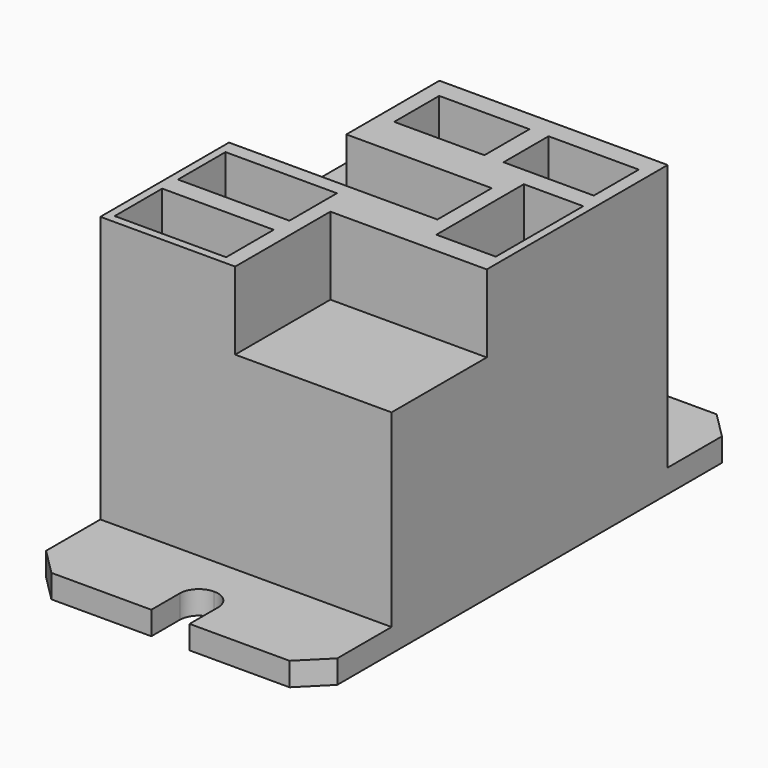
from build123d import *

# Parameters (mm, degrees)
F0_W     = 27.432
F0_H     = 32.512
F1_DEPTH = 27.3
F0_H_2   = 8.89
F2_DEPTH = 2.2
F3_SIZE  = 2.5
F4_W     = 14.732
F4_H     = 11.212
F5_DEPTH = 7.3
F6_W     = 8.5
F6_H     = 5.3
F6_W_2   = 5.6
F6_H_2   = 10.3
F6_W_3   = 10.5
F6_H_3   = 5.6
F7_DEPTH = 7.3
F9_DEPTH = 27.301


with BuildPart() as f1:
    # F0 (on Top) → F1 (new body)
    with BuildSketch(Plane.XY):
        Rectangle(F0_W, F0_H)
    extrude(amount=F1_DEPTH)

    # F0 (on Top) → F2 (join)
    with BuildSketch(Plane.XY):
        with Locations((0, 20.701)):
            Rectangle(F0_W, F0_H_2)
        with Locations((0, -20.701)):
            Rectangle(F0_W, F0_H_2)
    extrude(amount=F2_DEPTH)

    # F3
    f3_edges = [f1.edges().sort_by_distance(p)[0] for p in [
        (-13.716, -25.146, 1.1),
        (13.716, -25.146, 1.1),
        (13.716, 25.146, 1.1),
        (-13.716, 25.146, 1.1),
    ]]
    chamfer(f3_edges, length=F3_SIZE)

    # F4 (on face) → F5 (cut)
    with BuildSketch(Plane.XY.offset(27.3)):
        with Locations((6.35, -10.65)):
            Rectangle(F4_W, F4_H)
        Polygon((-13.716, 16.256), (-13.716, -1.106), (5.916, -1.106), (5.916, 5.294), (-7.784, 5.294), (-7.784, 16.256), align=None)
    extrude(amount=-F5_DEPTH, mode=Mode.SUBTRACT)

    # F6 (on face) → F7 (cut)
    with BuildSketch(Plane.XY.offset(27.3)):
        with Locations((-2.034, 11.706)):
            Rectangle(F6_W, F6_H)
        with Locations((8.266, 11.706)):
            Rectangle(F6_W, F6_H)
        with Locations((10.166, 2.106)):
            Rectangle(F6_W_2, F6_H_2)
        with Locations((-7.716, -12.706)):
            Rectangle(F6_W_3, F6_H_3)
        with Locations((-7.716, -5.256)):
            Rectangle(F6_W_3, F6_H_3)
    extrude(amount=-F7_DEPTH, mode=Mode.SUBTRACT)

    # F8 (on face) → F9 (cut, through all)
    with BuildSketch(Plane.XY):
        with BuildLine():
            Line((-1.8, -25.146), (0, -25.146))
            Line((0, -25.146), (1.8, -25.146))
            Line((1.8, -25.146), (1.8, -21.8))
            ThreePointArc((1.8, -21.8), (1.272792, -20.527208), (0, -20))
            ThreePointArc((0, -20), (-1.272792, -20.527208), (-1.8, -21.8))
            Line((-1.8, -21.8), (-1.8, -25.146))
        make_face()
        with BuildLine():
            Line((1.8, 25.146), (0, 25.146))
            Line((0, 25.146), (-1.8, 25.146))
            Line((-1.8, 25.146), (-1.8, 21.8))
            ThreePointArc((-1.8, 21.8), (-1.272792, 20.527208), (0, 20))
            ThreePointArc((0, 20), (1.272792, 20.527208), (1.8, 21.8))
            Line((1.8, 21.8), (1.8, 25.146))
        make_face()
    extrude(amount=F9_DEPTH, mode=Mode.SUBTRACT)


solid = f1.part
